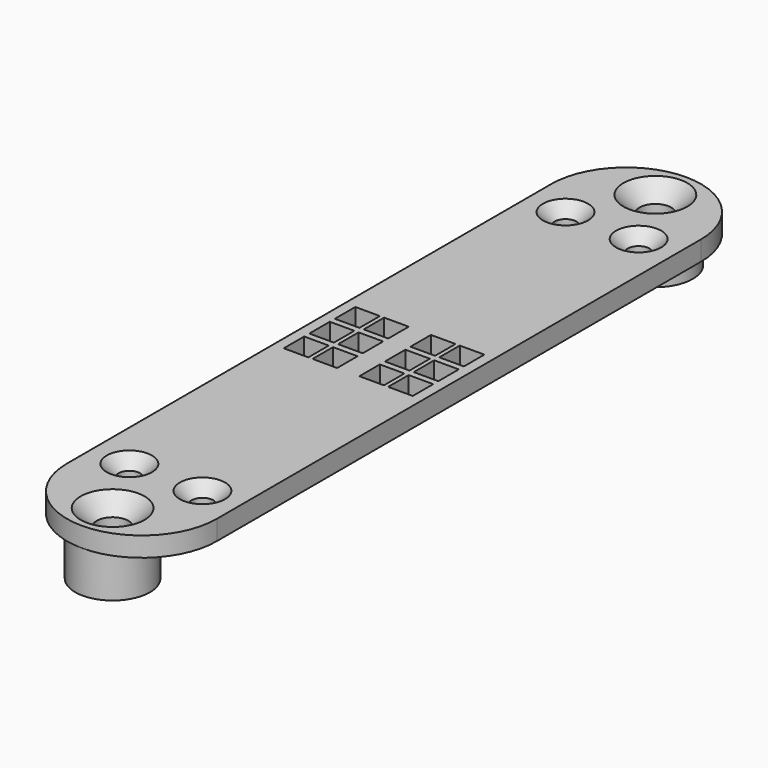
from build123d import *

# Parameters (mm, degrees)
SKETCH002_R            = 1.6
PAD_DEPTH              = 2
CHAMFER_SIZE           = 1.65
CHAMFER003_SIZE        = 1.65
SKETCH005_W            = 15.232
SKETCH005_H            = 21.56
SKETCH005_W_2          = 2.5
SKETCH005_H_2          = 2.6
PAD003_DEPTH           = 2
SKETCH_R               = 3.8
SKETCH_R_2             = 1.6
PAD004_DEPTH           = 4.3
SKETCH001_W            = 15.232
SKETCH001_H            = 20
SKETCH001_R            = 1.1
PAD001_DEPTH           = 2
CHAMFER002_SIZE        = 1.2
FUSION_PLACEMENT_ANGLE = 180


with BuildPart() as chamfer003:
    # Sketch002 → Pad (new body)
    with BuildSketch(Plane.XY):
        with BuildLine():
            ThreePointArc((15.232, 41.56), (7.616, 49.176), (0, 41.56))
            Line((0, 41.56), (15.232, 41.56))
        make_face()
        with Locations((7.616, 45.28)):
            Circle(SKETCH002_R, mode=Mode.SUBTRACT)
        with BuildLine():
            ThreePointArc((0, -20), (7.616, -27.616), (15.232, -20))
            Line((0, -20), (15.232, -20))
        make_face()
        with Locations((7.616, -23.72)):
            Circle(SKETCH002_R, mode=Mode.SUBTRACT)
    extrude(amount=PAD_DEPTH)

    # Chamfer
    chamfer_edges = [chamfer003.edges().sort_by_distance(p)[0] for p in [
        (6.016, 45.28, 0),
    ]]
    chamfer(chamfer_edges, length=CHAMFER_SIZE)

    # Chamfer003
    chamfer003_edges = [chamfer003.edges().sort_by_distance(p)[0] for p in [
        (6.016, -23.72, 0),
    ]]
    chamfer(chamfer003_edges, length=CHAMFER003_SIZE)


with BuildPart() as pad003:
    # Sketch005 → Pad003 (new body)
    with BuildSketch(Plane.XY):
        with Locations((7.616, 10.78)):
            Rectangle(SKETCH005_W, SKETCH005_H)
        with Locations((2.3099, 10.78)):
            Rectangle(SKETCH005_W_2, SKETCH005_H_2, mode=Mode.SUBTRACT)
        with Locations((2.3099, 14.03)):
            Rectangle(SKETCH005_W_2, SKETCH005_H_2, mode=Mode.SUBTRACT)
        with Locations((2.3099, 7.53)):
            Rectangle(SKETCH005_W_2, SKETCH005_H_2, mode=Mode.SUBTRACT)
        with Locations((5.2399, 14.03)):
            Rectangle(SKETCH005_W_2, SKETCH005_H_2, mode=Mode.SUBTRACT)
        with Locations((5.2399, 10.78)):
            Rectangle(SKETCH005_W_2, SKETCH005_H_2, mode=Mode.SUBTRACT)
        with Locations((5.2399, 7.53)):
            Rectangle(SKETCH005_W_2, SKETCH005_H_2, mode=Mode.SUBTRACT)
        with Locations((10, 14.03)):
            Rectangle(SKETCH005_W_2, SKETCH005_H_2, mode=Mode.SUBTRACT)
        with Locations((12.93, 14.03)):
            Rectangle(SKETCH005_W_2, SKETCH005_H_2, mode=Mode.SUBTRACT)
        with Locations((10, 10.78)):
            Rectangle(SKETCH005_W_2, SKETCH005_H_2, mode=Mode.SUBTRACT)
        with Locations((12.93, 10.78)):
            Rectangle(SKETCH005_W_2, SKETCH005_H_2, mode=Mode.SUBTRACT)
        with Locations((10, 7.53)):
            Rectangle(SKETCH005_W_2, SKETCH005_H_2, mode=Mode.SUBTRACT)
        with Locations((12.93, 7.53)):
            Rectangle(SKETCH005_W_2, SKETCH005_H_2, mode=Mode.SUBTRACT)
    extrude(amount=PAD003_DEPTH)


with BuildPart() as pad004:
    # Sketch → Pad004 (new body)
    with BuildSketch(Plane.XY.offset(2)):
        with Locations((7.616, 45.28)):
            Circle(SKETCH_R)
        with Locations((7.616, 45.28)):
            Circle(SKETCH_R_2, mode=Mode.SUBTRACT)
        with Locations((7.616, -23.72)):
            Circle(SKETCH_R)
        with Locations((7.616, -23.72)):
            Circle(SKETCH_R_2, mode=Mode.SUBTRACT)
    extrude(amount=PAD004_DEPTH)


with BuildPart() as topplate:
    # Sketch001 → Pad001 (new body)
    with BuildSketch(Plane.XY):
        with Locations((7.616, -10)):
            Rectangle(SKETCH001_W, SKETCH001_H)
        with Locations((3.8995, -16.9419)):
            Circle(SKETCH001_R, mode=Mode.SUBTRACT)
        with Locations((11.3325, -16.9419)):
            Circle(SKETCH001_R, mode=Mode.SUBTRACT)
        with Locations((7.616, 31.56)):
            Rectangle(SKETCH001_W, SKETCH001_H)
        with Locations((3.8995, 38.5019)):
            Circle(SKETCH001_R, mode=Mode.SUBTRACT)
        with Locations((11.3325, 38.5019)):
            Circle(SKETCH001_R, mode=Mode.SUBTRACT)
    extrude(amount=PAD001_DEPTH)

    # Chamfer002
    chamfer002_edges = [topplate.edges().sort_by_distance(p)[0] for p in [
        (10.2325, -16.9419, 0),
        (2.7995, -16.9419, 0),
        (10.2325, 38.5019, 0),
        (2.7995, 38.5019, 0),
    ]]
    chamfer(chamfer002_edges, length=CHAMFER002_SIZE)

    # Fusion: union Chamfer003, Pad003, Pad004
    add(chamfer003.part)
    add(pad003.part)
    add(pad004.part)


with BuildPart() as topplate_1:
    # Fusion placement: moved
    add(topplate.part.moved(Location((0, 0, 10))).rotate(Axis((0, 0, 10), (1, 0, 0)), FUSION_PLACEMENT_ANGLE))


solid = topplate_1.part
